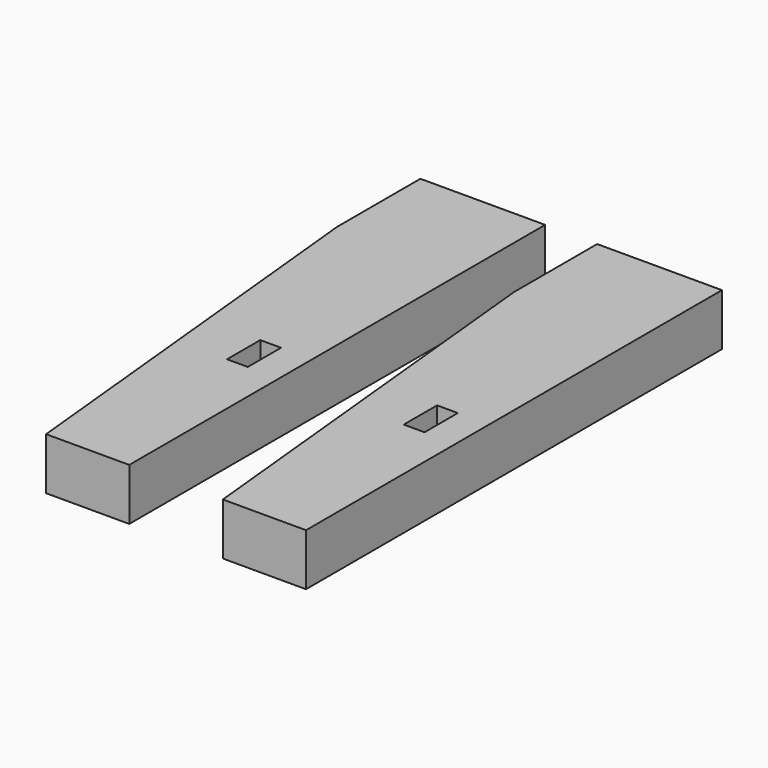
from build123d import *

# Parameters (mm, degrees)
F1_DEPTH = 25
F2_W     = 30
F2_H     = 10
F3_DEPTH = 25
F4_R     = 5
F5_DEPTH = 25
F6_W     = 10
F6_H     = 20
F7_DEPTH = 10


with BuildPart() as f1:
    # F0 (on Top) → F1 (new body)
    with BuildSketch(Plane.XY):
        Polygon((30, -125), (30, 125), (-30, 125), (-30, 75), (-10, -125), align=None)
    extrude(amount=F1_DEPTH)

    # F2 (on face) → F3 (cut)
    with BuildSketch(Plane(origin=(-30, 0, 0), x_dir=(0, -1, 0), z_dir=(-1, 0, 0))):
        with Locations((-100, 12.5)):
            Rectangle(F2_W, F2_H)
    extrude(amount=-F3_DEPTH, mode=Mode.SUBTRACT)

    # F4 (on face) → F5 (cut)
    with BuildSketch(Plane(origin=(0, 125, 0), x_dir=(-1, 0, 0), z_dir=(0, 1, 0))):
        with Locations((-15, 12.5)):
            Circle(F4_R)
    extrude(amount=-F5_DEPTH, mode=Mode.SUBTRACT)

    # F6 (on face) → F7 (cut)
    with BuildSketch(Plane(origin=(0, 0, 0), x_dir=(1, 0, 0), z_dir=(0, 0, -1))):
        with Locations((10, 25)):
            Rectangle(F6_W, F6_H)
    extrude(amount=-F7_DEPTH, mode=Mode.SUBTRACT)


with BuildPart() as f9_1:
    # F9: instance of F1
    add(f1.part.mirror(Plane.XY.offset(-65)))


with BuildPart() as f11_1:
    # F11: copy of F9_1
    add(f9_1.part)


with BuildPart() as f11_1_1:
    # F12: moved
    add(f11_1.part.moved(Location((85, 0, 0))))


solid = Compound([f9_1.part, f11_1_1.part])
